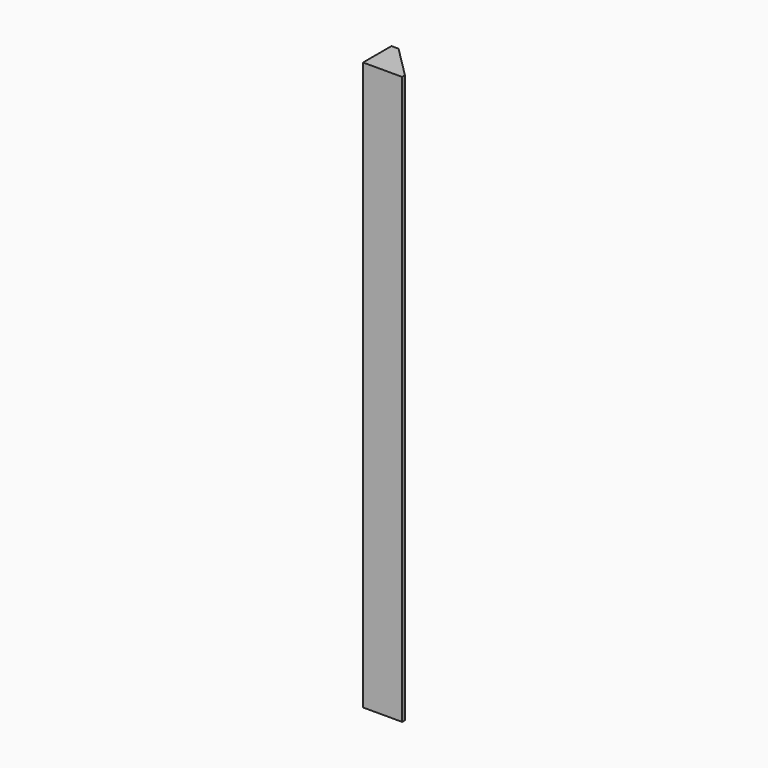
from build123d import *

# Parameters (mm, degrees)
F1_DEPTH = 127
F2_R     = 1.35255
F3_DEPTH = 4.7625


with BuildPart() as f1:
    # F0 (on Top) → F1 (new body)
    with BuildSketch(Plane.XY):
        Polygon((-8.73125, 0), (0, 0), (0, 0.79375), (-7.14375, 7.9375), (-8.73125, 7.9375), align=None)
    extrude(amount=F1_DEPTH)

    # F2 (on face) → F3 (cut)
    with BuildSketch(Plane(origin=(-8.73125, 0, 0), x_dir=(0, -1, 0), z_dir=(-1, 0, 0))):
        with Locations((-3.96875, 123.03125)):
            Circle(F2_R)
        with Locations((-3.96875, 63.5)):
            Circle(F2_R)
        with Locations((-3.96875, 3.96875)):
            Circle(F2_R)
    extrude(amount=-F3_DEPTH, mode=Mode.SUBTRACT)


solid = f1.part
